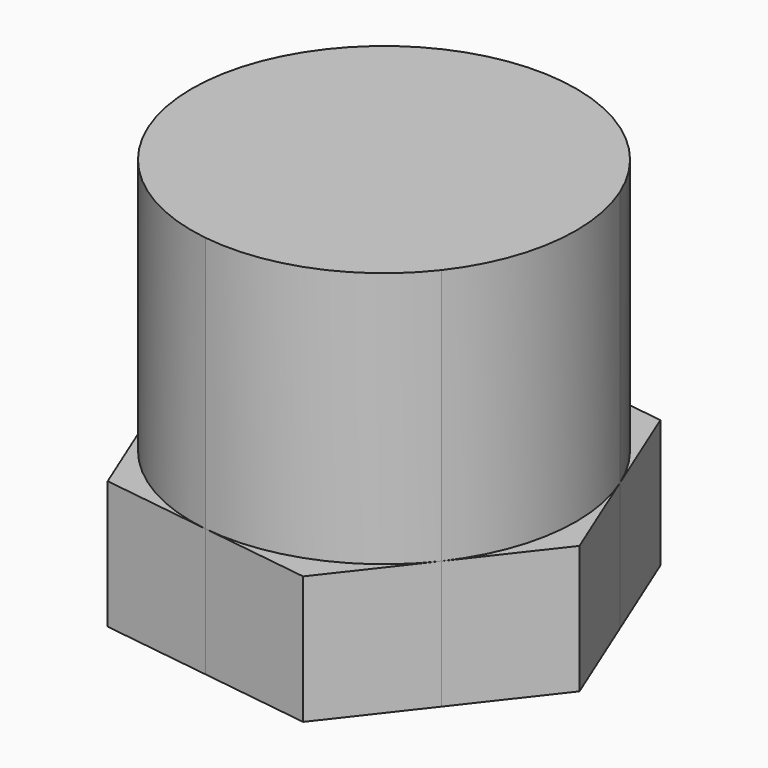
from build123d import *

# Parameters (mm, degrees)
F1_DEPTH = 50
F2_DEPTH = 10
F3_DEPTH = 20


with BuildPart() as f1:
    # F0 (on Top) → F1 (new body)
    with BuildSketch(Plane.XY):
        with BuildLine():
            ThreePointArc((11.839883195, -9.2096235498), (14.1879922456, -4.8683545514), (15, 0))
            ThreePointArc((15, 0), (14.7213389809, 2.8778774487), (13.8957095187, 5.648827929))
            ThreePointArc((13.8957095187, 5.648827929), (9.2096233049, 11.8398833855), (2.0558258258, 14.858451473))
            ThreePointArc((2.0558258258, 14.858451473), (-5.6488280861, 13.8957094548), (-11.8398831796, 9.2096235695))
            ThreePointArc((-11.8398831796, 9.2096235695), (-14.8584514186, 2.0558262189), (-13.8957094373, -5.6488281293))
            ThreePointArc((-13.8957094373, -5.6488281293), (-9.2096232871, -11.8398833994), (-2.0558259954, -14.8584514495))
            ThreePointArc((-2.0558259954, -14.8584514495), (5.6488280184, -13.8957094824), (11.839883195, -9.2096235498))
        make_face()
    extrude(amount=F1_DEPTH)

    # F0 (on Top) → F2 (join)
    with BuildSketch(Plane.XY):
        with BuildLine():
            ThreePointArc((11.839883195, -9.2096235498), (14.1879922456, -4.8683545514), (15, 0))
            ThreePointArc((15, 0), (14.7213389809, 2.8778774487), (13.8957095187, 5.648827929))
            ThreePointArc((13.8957095187, 5.648827929), (9.2096233049, 11.8398833855), (2.0558258258, 14.858451473))
            ThreePointArc((2.0558258258, 14.858451473), (-5.6488280861, 13.8957094548), (-11.8398831796, 9.2096235695))
            ThreePointArc((-11.8398831796, 9.2096235695), (-14.8584514186, 2.0558262189), (-13.8957094373, -5.6488281293))
            ThreePointArc((-13.8957094373, -5.6488281293), (-9.2096232871, -11.8398833994), (-2.0558259954, -14.8584514495))
            ThreePointArc((-2.0558259954, -14.8584514495), (5.6488280184, -13.8957094824), (11.839883195, -9.2096235498))
        make_face()
        with BuildLine():
            ThreePointArc((13.8957095187, 5.648827929), (14.7213389809, 2.8778774487), (15, 0))
            ThreePointArc((15, 0), (14.1879922456, -4.8683545514), (11.839883195, -9.2096235498))
            Line((11.839883195, -9.2096235498), (17.1570618896, -2.3738633739))
            Line((17.1570618896, -2.3738633739), (13.8957095187, 5.648827929))
        make_face()
        with BuildLine():
            ThreePointArc((2.0558258258, 14.858451473), (9.2096233049, 11.8398833855), (13.8957095187, 5.648827929))
            Line((13.8957095187, 5.648827929), (10.6343569317, 13.6715197637))
            Line((10.6343569317, 13.6715197637), (2.0558258258, 14.858451473))
        make_face()
        with BuildLine():
            Line((6.5227049579, -16.0453831376), (11.839883195, -9.2096235498))
            ThreePointArc((11.839883195, -9.2096235498), (5.6488280184, -13.8957094824), (-2.0558259954, -14.8584514495))
            Line((-2.0558259954, -14.8584514495), (6.5227049579, -16.0453831376))
        make_face()
        with BuildLine():
            ThreePointArc((-11.8398831796, 9.2096235695), (-5.6488280861, 13.8957094548), (2.0558258258, 14.858451473))
            Line((2.0558258258, 14.858451473), (-6.5227049579, 16.0453831376))
            Line((-6.5227049579, 16.0453831376), (-11.8398831796, 9.2096235695))
        make_face()
        with BuildLine():
            Line((-10.6343569317, -13.6715197637), (-2.0558259954, -14.8584514495))
            ThreePointArc((-2.0558259954, -14.8584514495), (-9.2096232871, -11.8398833994), (-13.8957094373, -5.6488281293))
            Line((-13.8957094373, -5.6488281293), (-10.6343569317, -13.6715197637))
        make_face()
        with BuildLine():
            ThreePointArc((-13.8957094373, -5.6488281293), (-14.8584514186, 2.0558262189), (-11.8398831796, 9.2096235695))
            Line((-11.8398831796, 9.2096235695), (-17.1570618896, 2.3738633739))
            Line((-17.1570618896, 2.3738633739), (-13.8957094373, -5.6488281293))
        make_face()
    extrude(amount=F2_DEPTH)

    # F3 (cut): a face of the model
    f3_faces = [f1.faces().sort_by_distance(p)[0] for p in [
        (0, 0, 50),
    ]]
    extrude(f3_faces, amount=-F3_DEPTH, mode=Mode.SUBTRACT)


solid = f1.part
